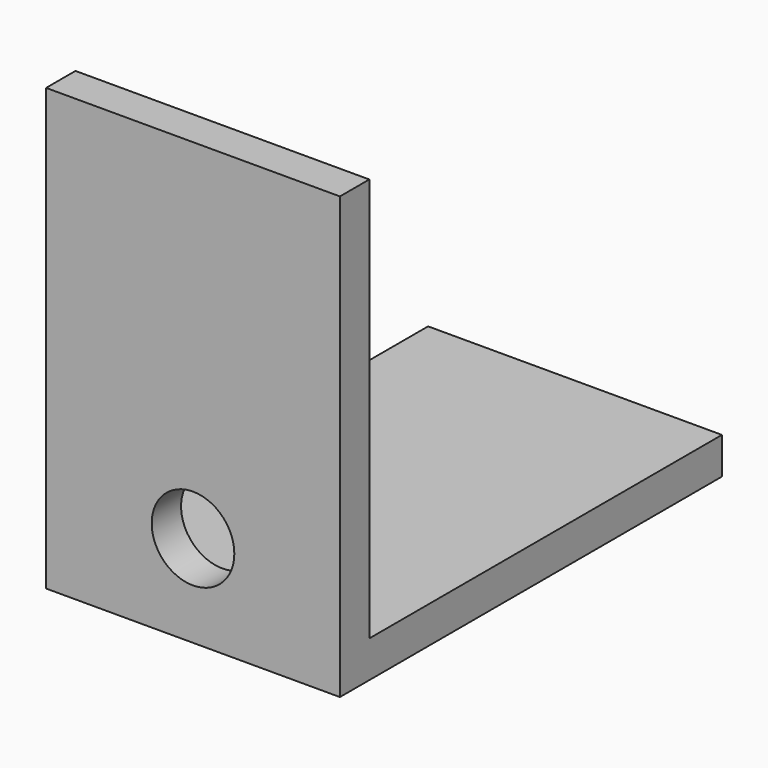
from build123d import *

# Parameters (mm, degrees)
F0_W     = 50.8
F0_H     = 76.2
F0_R     = 7.14375
F1_DEPTH = 6.35
F2_W     = 76.2
F2_H     = 6.35
F3_DEPTH = 50.8


with BuildPart() as f1:
    # F0 (on Front) → F1 (new body)
    with BuildSketch(Plane.XZ):
        Rectangle(F0_W, F0_H)
        with Locations((0, -22.225)):
            Circle(F0_R, mode=Mode.SUBTRACT)
    extrude(amount=F1_DEPTH)

    # F2 (on face) → F3 (join)
    with BuildSketch(Plane.YZ.offset(25.4)):
        with Locations((38.1, -34.925)):
            Rectangle(F2_W, F2_H)
    extrude(amount=-F3_DEPTH)


solid = f1.part
